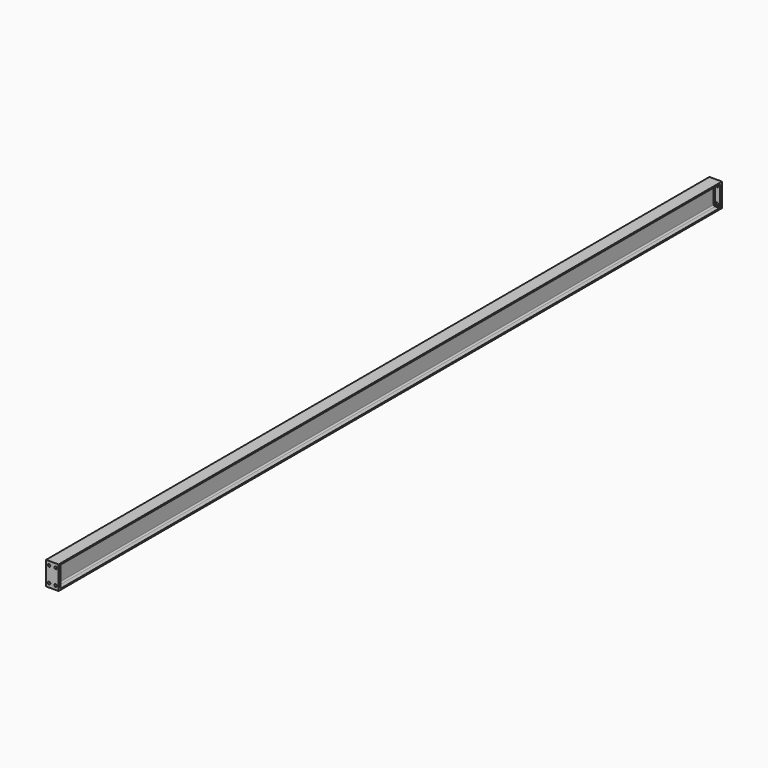
from build123d import *

# Parameters (mm, degrees)
F2_DEPTH = 4240
F3_R     = 6.5
F4_DEPTH = 12
F5_SIZE  = 3
F6_SIZE  = 3
F7_START = -4228
F3_W     = 64
F3_H     = 120
F7_DEPTH = 12
F8_SIZE  = 3
F9_SIZE  = 3


with BuildPart() as f2:
    # F0 (on Front) → F2 (new body)
    with BuildSketch(Plane.XZ):
        with BuildLine():
            Line((-32, 6.3), (-32, 0))
            Line((-32, 0), (32, 0))
            Line((32, 0), (32, 6.3))
            Line((32, 6.3), (9.2, 6.3))
            ThreePointArc((9.2, 6.3), (4.2502525317, 8.3502525317), (2.2, 13.3))
            Line((2.2, 13.3), (2.2, 106.7))
            ThreePointArc((2.2, 106.7), (4.2502525317, 111.6497474683), (9.2, 113.7))
            Line((9.2, 113.7), (32, 113.7))
            Line((32, 113.7), (32, 120))
            Line((32, 120), (-32, 120))
            Line((-32, 120), (-32, 113.7))
            Line((-32, 113.7), (-9.2, 113.7))
            ThreePointArc((-9.2, 113.7), (-4.2502525317, 111.6497474683), (-2.2, 106.7))
            Line((-2.2, 106.7), (-2.2, 13.3))
            ThreePointArc((-2.2, 13.3), (-4.2502525317, 8.3502525317), (-9.2, 6.3))
            Line((-9.2, 6.3), (-32, 6.3))
        make_face()
    extrude(amount=F2_DEPTH)

    # F3 (on face) → F4 (join)
    with BuildSketch(Plane(origin=(0, 0, 0), x_dir=(-1, 0, 0), z_dir=(0, 1, 0))):
        with BuildLine():
            Line((9.2, 6.3), (32, 6.3))
            Line((32, 6.3), (32, 113.7))
            Line((32, 113.7), (9.2, 113.7))
            ThreePointArc((9.2, 113.7), (4.2502525317, 111.6497474683), (2.2, 106.7))
            Line((2.2, 106.7), (2.2, 13.3))
            ThreePointArc((2.2, 13.3), (4.2502525317, 8.3502525317), (9.2, 6.3))
        make_face()
        with Locations((17, 20)):
            Circle(F3_R, mode=Mode.SUBTRACT)
        with Locations((17, 100)):
            Circle(F3_R, mode=Mode.SUBTRACT)
        with BuildLine():
            Line((-32, 113.7), (-32, 6.3))
            Line((-32, 6.3), (-9.2, 6.3))
            ThreePointArc((-9.2, 6.3), (-4.2502525317, 8.3502525317), (-2.2, 13.3))
            Line((-2.2, 13.3), (-2.2, 106.7))
            ThreePointArc((-2.2, 106.7), (-4.2502525317, 111.6497474683), (-9.2, 113.7))
            Line((-9.2, 113.7), (-32, 113.7))
        make_face()
        with Locations((-17, 20)):
            Circle(F3_R, mode=Mode.SUBTRACT)
        with Locations((-17, 100)):
            Circle(F3_R, mode=Mode.SUBTRACT)
        with BuildLine():
            Line((-32, 6.3), (-32, 0))
            Line((-32, 0), (32, 0))
            Line((32, 0), (32, 6.3))
            Line((32, 6.3), (9.2, 6.3))
            ThreePointArc((9.2, 6.3), (4.2502525317, 8.3502525317), (2.2, 13.3))
            Line((2.2, 13.3), (2.2, 106.7))
            ThreePointArc((2.2, 106.7), (4.2502525317, 111.6497474683), (9.2, 113.7))
            Line((9.2, 113.7), (32, 113.7))
            Line((32, 113.7), (32, 120))
            Line((32, 120), (-32, 120))
            Line((-32, 120), (-32, 113.7))
            Line((-32, 113.7), (-9.2, 113.7))
            ThreePointArc((-9.2, 113.7), (-4.2502525317, 111.6497474683), (-2.2, 106.7))
            Line((-2.2, 106.7), (-2.2, 13.3))
            ThreePointArc((-2.2, 13.3), (-4.2502525317, 8.3502525317), (-9.2, 6.3))
            Line((-9.2, 6.3), (-32, 6.3))
        make_face()
    extrude(amount=-F4_DEPTH)

    # F5
    f5_edges = [f2.edges().sort_by_distance(p)[0] for p in [
        (20.6, -12, 113.7),
        (4.250253, -12, 111.649747),
        (2.2, -12, 60),
        (4.250253, -12, 8.350253),
        (20.6, -12, 6.3),
    ]]
    chamfer(f5_edges, length=F5_SIZE)

    # F6
    f6_edges = [f2.edges().sort_by_distance(p)[0] for p in [
        (-20.6, -12, 6.3),
        (-4.250253, -12, 8.350253),
        (-2.2, -12, 60),
        (-4.250253, -12, 111.649747),
        (-20.6, -12, 113.7),
    ]]
    chamfer(f6_edges, length=F6_SIZE)

    # F3 (on face) → F7 (join)
    with BuildSketch(Plane(origin=(0, 0, 0), x_dir=(-1, 0, 0), z_dir=(0, 1, 0)).offset(F7_START)):
        with Locations((0, 60)):
            Rectangle(F3_W, F3_H)
        with Locations((-17, 20)):
            Circle(F3_R, mode=Mode.SUBTRACT)
        with Locations((17, 20)):
            Circle(F3_R, mode=Mode.SUBTRACT)
        with Locations((-17, 100)):
            Circle(F3_R, mode=Mode.SUBTRACT)
        with Locations((17, 100)):
            Circle(F3_R, mode=Mode.SUBTRACT)
    extrude(amount=-F7_DEPTH)

    # F8
    f8_edges = [f2.edges().sort_by_distance(p)[0] for p in [
        (20.6, -4228, 113.7),
        (4.250253, -4228, 111.649747),
        (2.2, -4228, 60),
        (4.250253, -4228, 8.350253),
        (20.6, -4228, 6.3),
    ]]
    chamfer(f8_edges, length=F8_SIZE)

    # F9
    f9_edges = [f2.edges().sort_by_distance(p)[0] for p in [
        (-20.6, -4228, 113.7),
        (-4.250253, -4228, 111.649747),
        (-2.2, -4228, 60),
        (-4.250253, -4228, 8.350253),
        (-20.6, -4228, 6.3),
    ]]
    chamfer(f9_edges, length=F9_SIZE)


solid = f2.part
